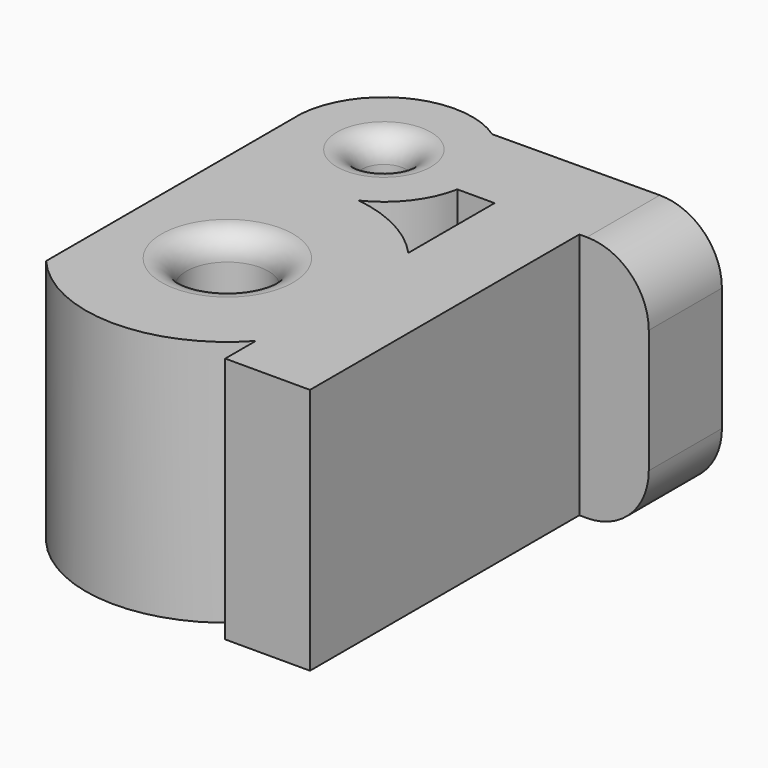
from build123d import *

# Parameters (mm, degrees)
F0_R     = 8.438361
F0_R_2   = 4.589875
F1_DEPTH = 50.8
F2_R     = 12.7
F3_R     = 5.08
F4_R     = 5.08
F5_R     = 12.7


with BuildPart() as f1:
    # F0 (on Top) → F1 (new body)
    with BuildSketch(Plane.XY):
        with BuildLine():
            ThreePointArc((-12.59586, 34.266691), (-30.68705, 35.659992), (-40.972862, 20.712266))
            Line((-40.972862, 20.712266), (-40.972862, -44.844314))
            ThreePointArc((-40.972862, -44.844314), (-19.315957, -55.018783), (2.645491, -45.519513))
            ThreePointArc((2.645491, -45.519513), (10.232743, -25.923947), (2.645491, -6.328381))
            ThreePointArc((2.645491, -6.328381), (-5.319089, -0.171182), (-14.90509, 2.903589))
            ThreePointArc((-14.90509, 2.903589), (-8.429057, 8.186436), (-5.000832, 15.808428))
            ThreePointArc((-5.000832, 15.808428), (-6.038721, 26.173063), (-12.59586, 34.266691))
        make_face()
        with Locations((-18.865578, -25.923947)):
            Circle(F0_R, mode=Mode.SUBTRACT)
        with Locations((-22.851223, 19.255218)):
            Circle(F0_R_2, mode=Mode.SUBTRACT)
        with BuildLine():
            Line((34.324799, 34.597994), (-12.59586, 34.266691))
            ThreePointArc((-12.59586, 34.266691), (-6.038721, 26.173063), (-5.000832, 15.808428))
            Line((-5.000832, 15.808428), (2.645491, 15.808428))
            Line((2.645491, 15.808428), (2.645491, -6.328381))
            ThreePointArc((2.645491, -6.328381), (10.232743, -25.923947), (2.645491, -45.519513))
            Line((2.645491, -45.519513), (2.645491, -53.361509))
            Line((2.645491, -53.361509), (20.059254, -53.361509))
            Line((20.059254, -53.361509), (20.059254, 15.808428))
            Line((20.059254, 15.808428), (34.324799, 15.808428))
            Line((34.324799, 15.808428), (34.324799, 34.597994))
        make_face()
    extrude(amount=F1_DEPTH)

    # F2
    f2_edges = [f1.edges().sort_by_distance(p)[0] for p in [
        (34.324799, 25.203211, 50.8),
    ]]
    fillet(f2_edges, radius=F2_R)

    # F3
    f3_edges = [f1.edges().sort_by_distance(p)[0] for p in [
        (-10.427217, -25.923947, 25.4),
        (-27.303939, -25.923947, 0),
        (-27.303939, -25.923947, 50.8),
        (-27.441098, 19.255218, 50.8),
    ]]
    fillet(f3_edges, radius=F3_R)

    # F4
    f4_edges = [f1.edges().sort_by_distance(p)[0] for p in [
        (-27.441098, 19.255218, 0),
    ]]
    fillet(f4_edges, radius=F4_R)

    # F5
    f5_edges = [f1.edges().sort_by_distance(p)[0] for p in [
        (34.324799, 25.203211, 0),
    ]]
    fillet(f5_edges, radius=F5_R)


solid = f1.part
